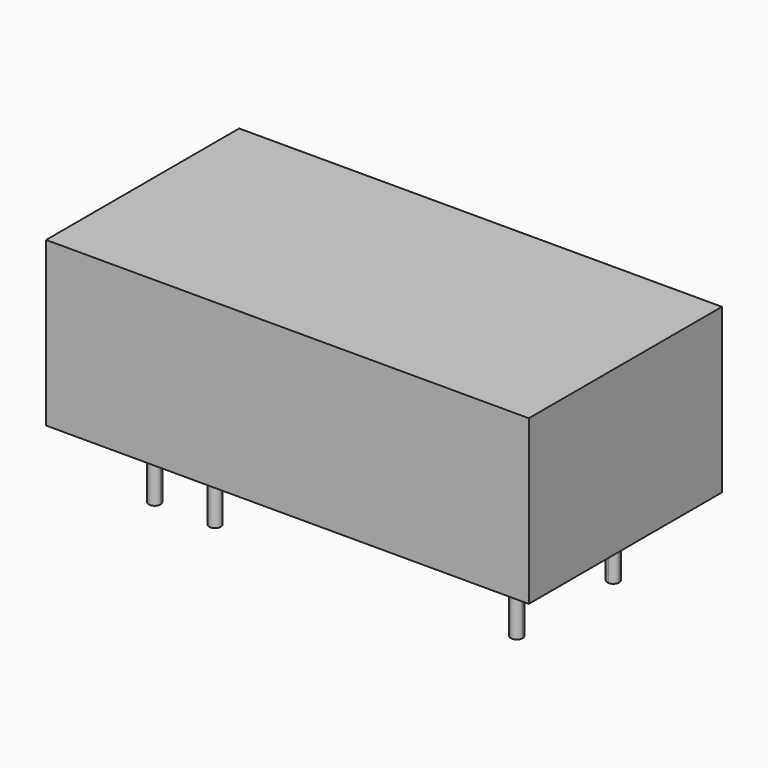
from build123d import *

# Parameters (mm, degrees)
F0_W     = 20.32
F0_H     = 10.16
F1_DEPTH = 6.88
F2_R     = 0.25
F3_DEPTH = 3.05


with BuildPart() as f1:
    # F0 (on Top) → F1 (new body)
    with BuildSketch(Plane.XY):
        Rectangle(F0_W, F0_H)
    extrude(amount=F1_DEPTH)

    # F2 (on face) → F3 (join)
    with BuildSketch(Plane(origin=(0, 0, 0), x_dir=(1, 0, 0), z_dir=(0, 0, -1))):
        with BuildLine():
            ThreePointArc((-7.62, 2.29), (-7.443223, 2.363223), (-7.37, 2.54))
            ThreePointArc((-7.37, 2.54), (-7.796777, 2.716777), (-7.62, 2.29))
        make_face()
        with BuildLine():
            ThreePointArc((-7.37, -2.54), (-7.443223, -2.363223), (-7.62, -2.29))
            ThreePointArc((-7.62, -2.29), (-7.796777, -2.716777), (-7.37, -2.54))
        make_face()
        with Locations((-5.08, 2.54)):
            Circle(F2_R)
        with BuildLine():
            ThreePointArc((7.62, 2.29), (7.796777, 2.363223), (7.87, 2.54))
            ThreePointArc((7.87, 2.54), (7.443223, 2.716777), (7.62, 2.29))
        make_face()
        with BuildLine():
            ThreePointArc((7.87, -2.54), (7.796777, -2.363223), (7.62, -2.29))
            ThreePointArc((7.62, -2.29), (7.443223, -2.716777), (7.87, -2.54))
        make_face()
    extrude(amount=F3_DEPTH)


solid = f1.part
